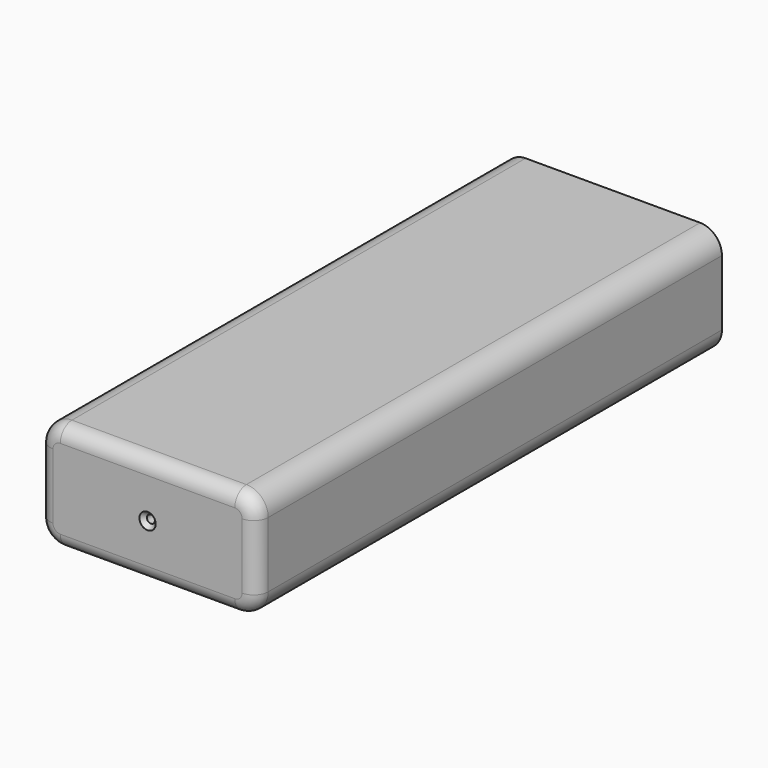
from build123d import *

# Parameters (mm, degrees)
F0_W           = 150
F0_H           = 75
F1_DEPTH       = 400
F2_R           = 15
F4_D           = 5.5
F4_DEPTH       = 12
F4_CSINK_D     = 11.2
F4_CSINK_ANGLE = 90
F4_TIP         = 1.6523667023
F5_R           = 10


with BuildPart() as f1:
    # F0 (on Front) → F1 (new body)
    with BuildSketch(Plane.XZ):
        Rectangle(F0_W, F0_H)
    extrude(amount=F1_DEPTH)

    # F2
    f2_edges = [f1.edges().sort_by_distance(p)[0] for p in [
        (75, -200, 37.5),
        (75, -200, -37.5),
        (-75, -200, 37.5),
        (-75, -200, -37.5),
    ]]
    fillet(f2_edges, radius=F2_R)

    # F4
    with Locations(Plane.XZ.offset(400)):
        with Locations((0, 0)):
            CounterSinkHole(F4_D / 2, F4_CSINK_D / 2, depth=F4_DEPTH, counter_sink_angle=F4_CSINK_ANGLE)
            with Locations((0, 0, -(F4_DEPTH + F4_TIP / 2))):  # 118° drill point
                Cone(0, F4_D / 2, F4_TIP, mode=Mode.SUBTRACT)

    # F5
    f5_edges = [f1.edges().sort_by_distance(p)[0] for p in [
        (0, -400, 37.5),
    ]]
    fillet(f5_edges, radius=F5_R)


solid = f1.part
